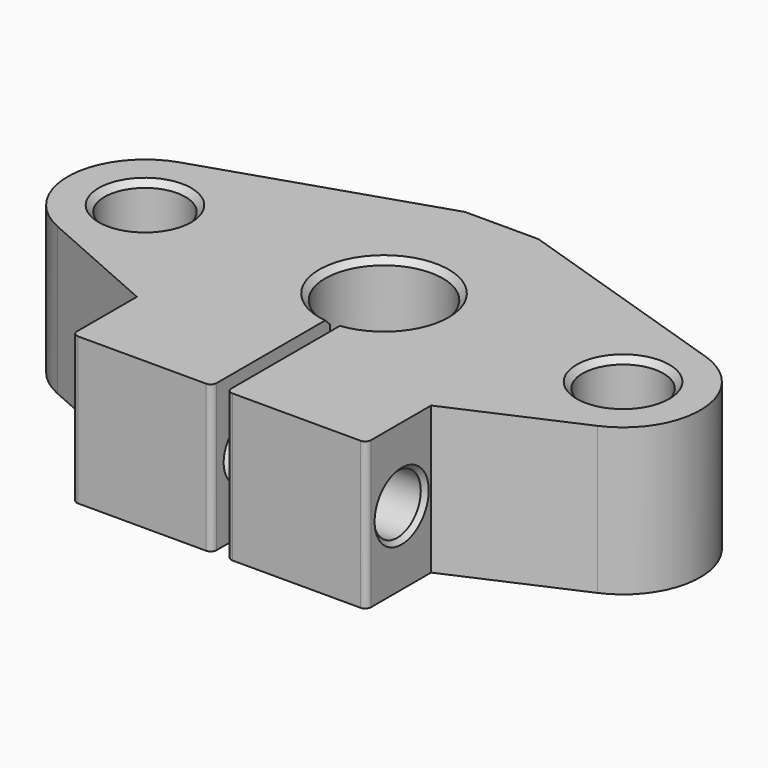
from build123d import *

# Parameters (mm, degrees)
SKETCH_R        = 4
SKETCH_R_2      = 2.75
PAD_DEPTH       = 5
SKETCH001_W     = 1
SKETCH001_H     = 12
POCKET_DEPTH    = 10.001
CHAMFER_SIZE    = 0.4
FILLET_R        = 0.4
SKETCH002_R     = 2
POCKET001_DEPTH = 31.501
CHAMFER001_SIZE = 0.3


with BuildPart() as part:
    # Sketch → Pad (new body, symmetric)
    with BuildSketch(Plane.XY):
        with BuildLine():
            Line((-2.5, 10), (2.5, 10))
            Line((17.875915, 4.991883), (2.5, 10))
            ThreePointArc((18.371237, -4.80238), (21.493299, 0.265167), (17.875915, 4.991883))
            Line((18.371237, -4.80238), (10, -8.5))
            Line((10, -14), (10, -8.5))
            Line((-10, -14), (10, -14))
            Line((-10, -14), (-10, -8.5))
            Line((-10, -8.5), (-18.371237, -4.80238))
            ThreePointArc((-17.875915, 4.991883), (-21.493299, 0.265167), (-18.371237, -4.80238))
            Line((-17.875915, 4.991883), (-2.5, 10))
        make_face()
        Circle(SKETCH_R, mode=Mode.SUBTRACT)
        with Locations((16.25, 0)):
            Circle(SKETCH_R_2, mode=Mode.SUBTRACT)
        with Locations((-16.25, 0)):
            Circle(SKETCH_R_2, mode=Mode.SUBTRACT)
    extrude(amount=PAD_DEPTH, both=True)

    # Sketch001 (on Face15 of Pad) → Pocket (cut, through all)
    with BuildSketch(Plane.XY.offset(5)):
        with Locations((0, -9)):
            Rectangle(SKETCH001_W, SKETCH001_H)
    extrude(amount=-POCKET_DEPTH, mode=Mode.SUBTRACT)

    # Chamfer
    chamfer_edges = [part.edges().sort_by_distance(p)[0] for p in [
        (-19, 0, 5),
        (13.5, 0, 5),
        (-19, 0, -5),
        (13.5, 0, -5),
        (-2.645751, 3, -5),
        (-2.645751, 3, 5),
    ]]
    chamfer(chamfer_edges, length=CHAMFER_SIZE)

    # Fillet
    fillet_edges = [part.edges().sort_by_distance(p)[0] for p in [
        (10, -14, 0),
        (0.5, -14, 0),
        (-0.5, -14, 0),
        (-10, -14, 0),
    ]]
    fillet(fillet_edges, radius=FILLET_R)

    # Sketch002 (on Face16 of Fillet) → Pocket001 (cut, through all)
    with BuildSketch(Plane.YZ.offset(10)):
        with Locations((-11, 0)):
            Circle(SKETCH002_R)
    extrude(amount=-POCKET001_DEPTH, mode=Mode.SUBTRACT)

    # Chamfer001
    chamfer001_edges = [part.edges().sort_by_distance(p)[0] for p in [
        (10, -13, 0),
        (-10, -13, 0),
    ]]
    chamfer(chamfer001_edges, length=CHAMFER001_SIZE)


solid = part.part
